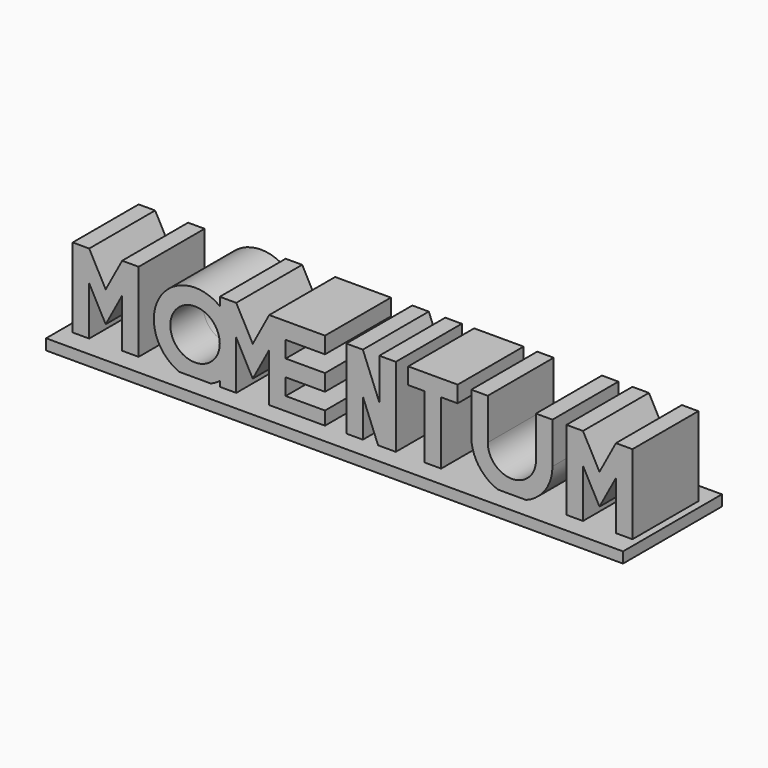
from build123d import *

# Parameters (mm, degrees)
F1_DEPTH = 6.35
F0_R     = 3.81
F0_W     = 6.0548761711
F0_H     = 2.54
F0_W_2   = 2.54
F0_H_2   = 10.16
F2_W     = 88.9036133885
F2_H     = 1.6595339403
F3_DEPTH = 9.525
F4_SCALE = 2


with BuildPart() as f1:
    # F0 (on Front) → F1 (new body, symmetric)
    with BuildSketch(Plane.XZ):
        Polygon((-42.1707964678, -6.35), (-39.6307964678, -6.35), (-39.6307964678, 1.6256), (-42.1707964678, 6.35), align=None)
        Polygon((-42.1707964678, 6.35), (-39.6307964678, 1.6256), (-39.6307964678, 6.35), align=None)
        Polygon((-39.6307964678, 6.35), (-39.6307964678, 1.6256), (-37.0907964678, -3.0988), (-37.0907964678, 1.6256), align=None)
        Polygon((-37.0907964678, 1.6256), (-37.0907964678, -3.0988), (-34.5507964678, 1.6256), (-34.5507964678, 6.35), align=None)
        Polygon((-34.5507964678, 6.35), (-34.5507964678, 1.6256), (-32.0107964678, 6.35), align=None)
        Polygon((-34.5507964678, 1.6256), (-34.5507964678, -6.35), (-32.0107964678, -6.35), (-32.0107964678, 6.35), align=None)
    extrude(amount=F1_DEPTH, both=True)


with BuildPart() as f1b:
    # F0 (on Front) → F1, piece 2 (new body, symmetric)
    with BuildSketch(Plane.XZ):
        with BuildLine():
            ThreePointArc((-23.3206523725, 6.35), (-29.6706523725, 0), (-23.3206523725, -6.35))
            ThreePointArc((-23.3206523725, -6.35), (-21.3126060583, -6.0241389426), (-19.5106523725, -5.08))
            Line((-19.5106523725, -5.08), (-19.5106523725, 0))
            Line((-19.5106523725, 0), (-19.5106523725, 5.08))
            ThreePointArc((-19.5106523725, 5.08), (-21.3126060583, 6.0241389426), (-23.3206523725, 6.35))
        make_face()
        with Locations((-23.3206523725, 0)):
            Circle(F0_R, mode=Mode.SUBTRACT)
        with BuildLine():
            ThreePointArc((-16.9706523725, 0), (-17.6410397097, 2.8398063314), (-19.5106523725, 5.08))
            Line((-19.5106523725, 5.08), (-19.5106523725, 0))
            Line((-19.5106523725, 0), (-16.9706523725, 0))
        make_face()
        with BuildLine():
            Line((-19.5106523725, 0), (-19.5106523725, -5.08))
            ThreePointArc((-19.5106523725, -5.08), (-17.6410397097, -2.8398063314), (-16.9706523725, 0))
            Line((-16.9706523725, 0), (-19.5106523725, 0))
        make_face()
        with BuildLine():
            Line((-19.5106523725, -5.08), (-19.5106523725, -6.35))
            Line((-19.5106523725, -6.35), (-16.9706523725, -6.35))
            Line((-16.9706523725, -6.35), (-16.9706523725, 0))
            ThreePointArc((-16.9706523725, 0), (-17.6410397097, -2.8398063314), (-19.5106523725, -5.08))
        make_face()
        Polygon((-16.9706523725, 6.35), (-19.5106523725, 6.35), (-16.9706523725, 1.621060252), align=None)
        with BuildLine():
            Line((-16.9706523725, 1.621060252), (-19.5106523725, 6.35))
            Line((-19.5106523725, 6.35), (-19.5106523725, 5.08))
            ThreePointArc((-19.5106523725, 5.08), (-17.6410397097, 2.8398063314), (-16.9706523725, 0))
            Line((-16.9706523725, 0), (-16.9706523725, 1.621060252))
        make_face()
        Polygon((-14.4306523725, 1.621060252), (-16.9706523725, 6.35), (-16.9706523725, 1.621060252), (-14.4306523725, -3.1078794961), align=None)
        Polygon((-11.8906523725, 6.35), (-14.4306523725, 1.621060252), (-14.4306523725, -3.1078794961), (-11.8906523725, 1.621060252), (-11.8906523725, 3.81), align=None)
        Polygon((-9.3506523725, 6.35), (-11.8906523725, 6.35), (-11.8906523725, 3.81), (-10.7149328125, 3.81), align=None)
        Polygon((-11.8906523725, 3.81), (-11.8906523725, 1.621060252), (-10.7149328125, 3.81), align=None)
        with Locations((-6.323214287, 5.08)):
            Rectangle(F0_W, F0_H)
        Polygon((-10.7149328125, 3.81), (-11.8906523725, 1.621060252), (-11.8906523725, 1.27), (-9.3506523725, 1.27), (-9.3506523725, 3.81), align=None)
        Polygon((-9.3506523725, 3.81), (-9.3506523725, 6.35), (-10.7149328125, 3.81), align=None)
        with Locations((-10.6206523725, 0)):
            Rectangle(F0_W_2, F0_H)
        with Locations((-6.323214287, 0)):
            Rectangle(F0_W, F0_H)
        with Locations((-10.6206523725, -2.54)):
            Rectangle(F0_W_2, F0_H)
        with Locations((-10.6206523725, -5.08)):
            Rectangle(F0_W_2, F0_H)
        with Locations((-6.323214287, -5.08)):
            Rectangle(F0_W, F0_H)
    extrude(amount=F1_DEPTH, both=True)


with BuildPart() as f1c:
    # F0 (on Front) → F1, piece 3 (new body, symmetric)
    with BuildSketch(Plane.XZ):
        Polygon((0, 6.35), (0, -6.35), (2.54, -6.35), (2.54, 0), align=None)
        Polygon((2.54, 6.35), (0, 6.35), (2.54, 0), align=None)
        Polygon((5.08, 0), (2.54, 6.35), (2.54, 0), (5.08, -6.35), align=None)
        Polygon((5.08, 0), (5.08, -6.35), (7.62, -6.35), align=None)
        Polygon((5.08, 6.35), (5.08, 0), (7.62, -6.35), (7.62, 6.35), align=None)
    extrude(amount=F1_DEPTH, both=True)


with BuildPart() as f1d:
    # F0 (on Front) → F1, piece 4 (new body, symmetric)
    with BuildSketch(Plane.XZ):
        with Locations((13.3382392576, -1.27)):
            Rectangle(F0_W_2, F0_H_2)
        with Locations((15.8782392576, 5.08)):
            Rectangle(F0_W_2, F0_H)
        with Locations((13.3382392576, 5.08)):
            Rectangle(F0_W_2, F0_H)
        with Locations((10.7982392576, 5.08)):
            Rectangle(F0_W_2, F0_H)
    extrude(amount=F1_DEPTH, both=True)


with BuildPart() as f1e:
    # F0 (on Front) → F1, piece 5 (new body, symmetric)
    with BuildSketch(Plane.XZ):
        with BuildLine():
            Line((31.7550115287, 0), (31.7550115287, 6.35))
            Line((31.7550115287, 6.35), (29.2150115287, 6.35))
            Line((29.2150115287, 6.35), (29.2150115287, 0))
            ThreePointArc((29.2150115287, 0), (25.5010910332, -3.7139204955), (21.7871705377, 0))
            Line((21.7871705377, 0), (21.7871705377, 6.35))
            Line((21.7871705377, 6.35), (19.2471705377, 6.35))
            Line((19.2471705377, 6.35), (19.2471705377, 0))
            ThreePointArc((19.2471705377, 0), (25.5010910332, -6.2539204955), (31.7550115287, 0))
        make_face()
    extrude(amount=F1_DEPTH, both=True)


with BuildPart() as f1f:
    # F0 (on Front) → F1, piece 6 (new body, symmetric)
    with BuildSketch(Plane.XZ):
        Polygon((33.9198186994, 6.35), (33.9198186994, -6.35), (36.4598186994, -6.35), (36.4598186994, 1.6256), align=None)
        Polygon((36.4598186994, 6.35), (33.9198186994, 6.35), (36.4598186994, 1.6256), align=None)
        Polygon((36.4598186994, 6.35), (36.4598186994, 1.6256), (38.9998186994, -3.0988), (38.9998186994, 1.6256), align=None)
        Polygon((38.9998186994, 1.6256), (38.9998186994, -3.0988), (41.5398186994, 1.6256), (41.5398186994, 6.35), align=None)
        Polygon((41.5398186994, 6.35), (41.5398186994, 1.6256), (44.0798186994, 6.35), align=None)
        Polygon((41.5398186994, 1.6256), (41.5398186994, -6.35), (44.0798186994, -6.35), (44.0798186994, 6.35), align=None)
    extrude(amount=F1_DEPTH, both=True)


with BuildPart() as f3:
    # F2 (on Front) → F3 (new body, symmetric)
    with BuildSketch(Plane.XZ):
        with Locations((0.7174350321, -6.6974051297)):
            Rectangle(F2_W, F2_H)
    extrude(amount=F3_DEPTH, both=True)


with BuildPart() as f1d_1:
    # F4: moved
    add(f1d.part.scale(F4_SCALE))


with BuildPart() as f1_1:
    # F4: moved
    add(f1.part.scale(F4_SCALE))


with BuildPart() as f1b_1:
    # F4: moved
    add(f1b.part.scale(F4_SCALE))


with BuildPart() as f1c_1:
    # F4: moved
    add(f1c.part.scale(F4_SCALE))


with BuildPart() as f1e_1:
    # F4: moved
    add(f1e.part.scale(F4_SCALE))


with BuildPart() as f1f_1:
    # F4: moved
    add(f1f.part.scale(F4_SCALE))


with BuildPart() as f3_1:
    # F4: moved
    add(f3.part.scale(F4_SCALE))


solid = Compound([f1d_1.part, f1_1.part, f1b_1.part, f1c_1.part, f1e_1.part, f1f_1.part, f3_1.part])
